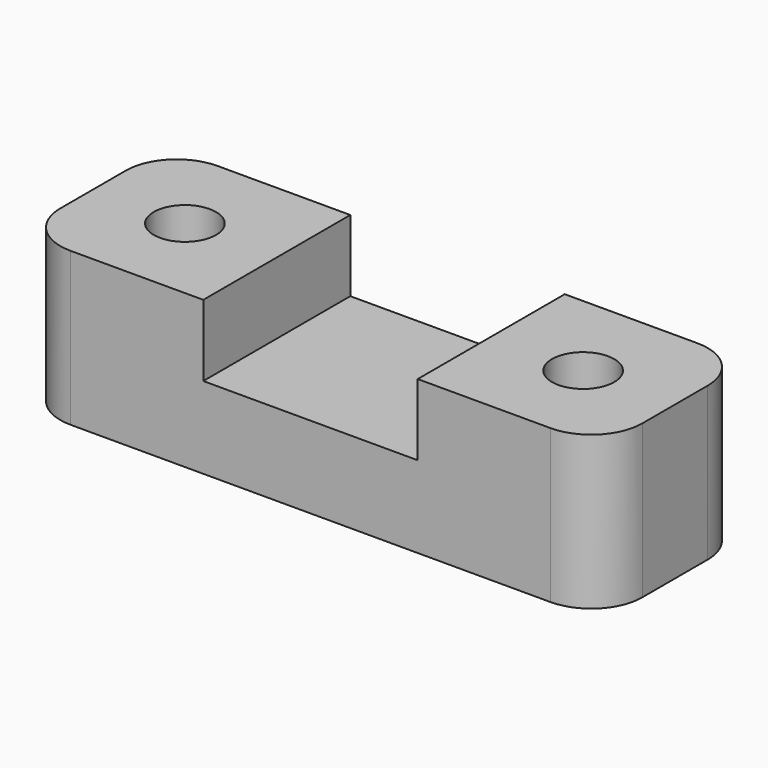
from build123d import *

# Parameters (mm, degrees)
F0_W     = 28.5
F0_H     = 9
F0_R     = 1.525
F1_DEPTH = 7.5
F2_W     = 10.5
F2_H     = 9
F3_DEPTH = 3.5
F4_R     = 2.5
F5_SIZE2 = 1.5
F5_SIZE  = 1.5


with BuildPart() as f1:
    # F0 (on Top) → F1 (new body)
    with BuildSketch(Plane.XY):
        Rectangle(F0_W, F0_H)
        with Locations((-9.75, 0)):
            Circle(F0_R, mode=Mode.SUBTRACT)
        with Locations((9.75, 0)):
            Circle(F0_R, mode=Mode.SUBTRACT)
    extrude(amount=F1_DEPTH)

    # F2 (on face) → F3 (cut)
    with BuildSketch(Plane.XY.offset(7.5)):
        Rectangle(F2_W, F2_H)
    extrude(amount=-F3_DEPTH, mode=Mode.SUBTRACT)

    # F4
    f4_edges = [f1.edges().sort_by_distance(p)[0] for p in [
        (14.25, -4.5, 3.75),
        (14.25, 4.5, 3.75),
        (-14.25, -4.5, 3.75),
        (-14.25, 4.5, 3.75),
    ]]
    fillet(f4_edges, radius=F4_R)

    # F5
    f5_edges = [f1.edges().sort_by_distance(p)[0] for p in [
        (-11.275, 0, 0),
        (8.225, 0, 0),
    ]]
    chamfer(f5_edges, length=F5_SIZE, length2=F5_SIZE2)


solid = f1.part
